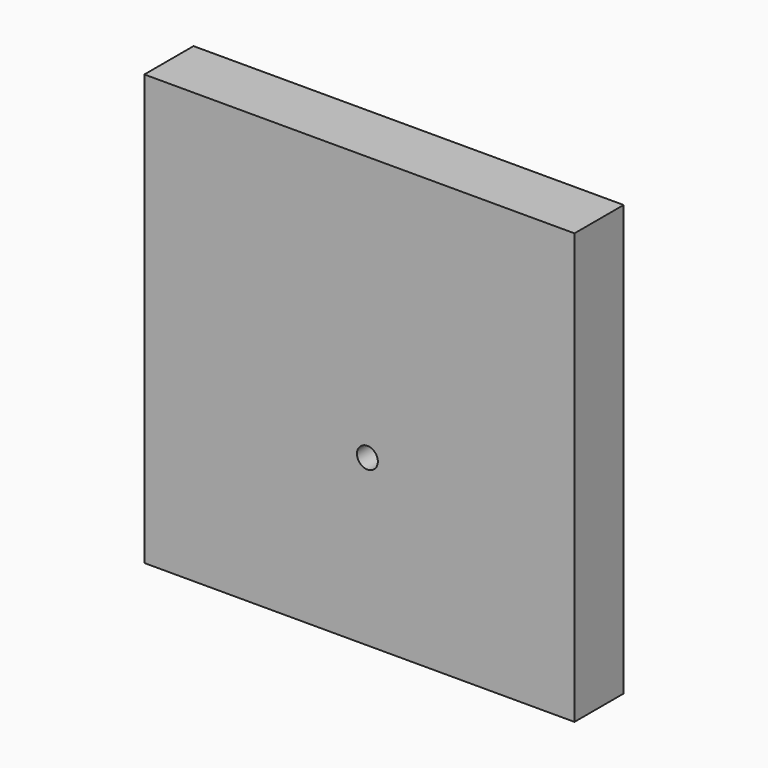
from build123d import *

# Parameters (mm, degrees)
F0_W     = 70
F0_H     = 70
F1_DEPTH = 10
F2_D     = 3.4


with BuildPart() as f1:
    # F0 (on Front) → F1 (new body)
    with BuildSketch(Plane.XZ):
        Rectangle(F0_W, F0_H)
    extrude(amount=F1_DEPTH)

    # F2 (through all)
    with Locations(Plane(origin=(0, 0, 0), x_dir=(1, 0, 0), z_dir=(0, 1, 0))):
        with Locations((1.3, 8.1)):
            Hole(F2_D / 2)


solid = f1.part
